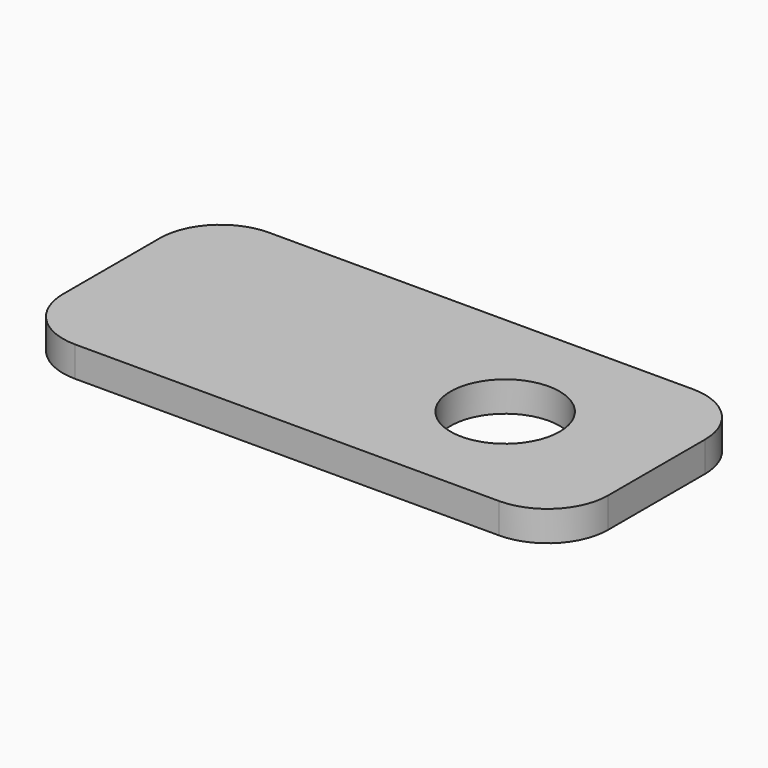
from build123d import *

# Parameters (mm, degrees)
F0_R     = 11.43
F1_DEPTH = 6.35


with BuildPart() as f1:
    # F0 (on Top) → F1 (new body)
    with BuildSketch(Plane.XY):
        with BuildLine():
            Line((50.8, 0), (12.7, 0))
            ThreePointArc((12.7, 0), (3.719744, -3.719744), (0, -12.7))
            Line((0, -12.7), (0, -38.1))
            ThreePointArc((0, -38.1), (3.719744, -47.080256), (12.7, -50.8))
            Line((12.7, -50.8), (50.8, -50.8))
            Line((50.8, -50.8), (50.8, 0))
        make_face()
        with BuildLine():
            Line((101.6, 0), (50.8, 0))
            Line((50.8, 0), (50.8, -50.8))
            Line((50.8, -50.8), (101.6, -50.8))
            ThreePointArc((101.6, -50.8), (110.580256, -47.080256), (114.3, -38.1))
            Line((114.3, -38.1), (114.3, -12.7))
            ThreePointArc((114.3, -12.7), (110.580256, -3.719744), (101.6, 0))
        make_face()
        with Locations((82.55, -25.4)):
            Circle(F0_R, mode=Mode.SUBTRACT)
    extrude(amount=F1_DEPTH)


solid = f1.part
